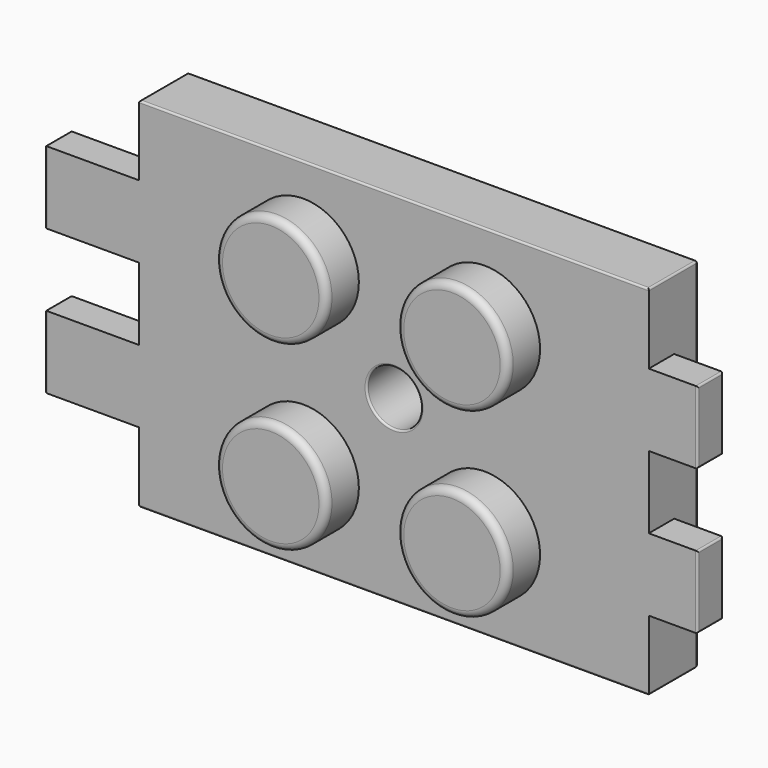
from build123d import *

# Parameters (mm, degrees)
SKETCH009_W                     = 22.5
SKETCH009_H                     = 15.8
PAD007_DEPTH                    = 2.7
SKETCH010_W                     = 3.2
SKETCH010_H                     = 1.4
PAD008_DEPTH                    = 2.15
SKETCH011_W                     = 3.2
SKETCH011_H                     = 1.4
PAD009_DEPTH                    = 4.15
SKETCH012_R                     = 2.45
PAD010_DEPTH                    = 1.8
SKETCH012_LINEARPATTERN004_2_R  = 2.45
PAD010_LINEARPATTERN004_2_DEPTH = 1.8
FILLET004_R                     = 0.32
SKETCH013_R                     = 1.2
POCKET002_DEPTH                 = 5
FILLET006_R                     = 0.08


with BuildPart() as part:
    # Sketch009 → Pad007 (new body)
    with BuildSketch(Plane.XZ):
        Rectangle(SKETCH009_W, SKETCH009_H)
    extrude(amount=-PAD007_DEPTH)

    # Sketch010 (on Face2 of Pad007) → Pad008 (join)
    with BuildSketch(Plane(origin=(11.25, 0, 0), x_dir=(0, 0, 1), z_dir=(1, 0, 0))):
        with Locations((-3.2, -0.7)):
            Rectangle(SKETCH010_W, SKETCH010_H)
        with Locations((3.2, -0.7)):
            Rectangle(SKETCH010_W, SKETCH010_H)
    extrude(amount=PAD008_DEPTH)

    # Sketch011 (on Face2 of Pad008) → Pad009 (join)
    with BuildSketch(Plane(origin=(-11.25, 0, 0), x_dir=(0, 0, -1), z_dir=(-1, 0, 0))):
        with Locations((-3.2, -0.7)):
            Rectangle(SKETCH011_W, SKETCH011_H)
        with Locations((3.2, -0.7)):
            Rectangle(SKETCH011_W, SKETCH011_H)
    extrude(amount=PAD009_DEPTH)

    # Sketch012 (on Face4 of Pad009) → Pad010 (join)
    with BuildSketch(Plane.XZ):
        with Locations((4, 4)):
            Circle(SKETCH012_R)
    pad010 = extrude(amount=PAD010_DEPTH)

    # Sketch012 LinearPattern004 2 → Pad010 LinearPattern004 2 (add)
    with BuildSketch(Plane(origin=(-8, 0, 0), x_dir=(1, 0, 0), z_dir=(0, -1, 0))):
        with Locations((4, 4)):
            Circle(SKETCH012_LINEARPATTERN004_2_R)
    pad010_linearpattern004_2 = extrude(amount=PAD010_LINEARPATTERN004_2_DEPTH)

    # Mirrored002: Pad010, Pad010 LinearPattern004 2 across Sketch012 H_Axis
    add(pad010.mirror(Plane(origin=(0, 0, 0), x_dir=(0, -1, 0), z_dir=(0, 0, 1))))
    add(pad010_linearpattern004_2.mirror(Plane(origin=(0, 0, 0), x_dir=(0, -1, 0), z_dir=(0, 0, 1))))

    # Fillet004
    fillet004_edges = [part.edges().sort_by_distance(p)[0] for p in [
        (1.55, -1.8, 4),
        (-6.45, -1.8, 4),
        (-6.45, -1.8, -4),
        (1.55, -1.8, -4),
    ]]
    fillet(fillet004_edges, radius=FILLET004_R)

    # Sketch013 (on Face16 of Fillet004) → Pocket002 (cut)
    with BuildSketch(Plane(origin=(0, 2.7, 0), x_dir=(1, 0, 0), z_dir=(0, 1, 0))):
        Circle(SKETCH013_R)
    extrude(amount=-POCKET002_DEPTH, mode=Mode.SUBTRACT)

    # Fillet006
    fillet006_edges = [part.edges().sort_by_distance(p)[0] for p in [
        (11.25, 1.35, -7.9),
        (-11.25, 1.35, -7.9),
        (0, 0, -7.9),
        (0, 2.7, -7.9),
        (-11.25, 1.35, 7.9),
        (11.25, 1.35, 7.9),
        (0, 0, 7.9),
        (0, 2.7, 7.9),
        (-11.25, 2.7, 0),
        (11.25, 2.7, 0),
        (-1.2, 2.7, 0),
        (1.2, 1.35, 0),
        (-1.2, 0, 0),
        (13.4, 0, 3.2),
        (13.4, 0.7, 4.8),
        (13.4, 1.4, 3.2),
        (13.4, 0.7, 1.6),
        (13.4, 0, -3.2),
        (13.4, 0.7, -1.6),
        (13.4, 1.4, -3.2),
        (13.4, 0.7, -4.8),
        (-15.4, 0, -3.2),
        (-15.4, 0.7, -4.8),
        (-15.4, 1.4, -3.2),
        (-15.4, 0.7, -1.6),
        (-15.4, 0, 3.2),
        (-15.4, 0.7, 1.6),
        (-15.4, 1.4, 3.2),
        (-15.4, 0.7, 4.8),
    ]]
    fillet(fillet006_edges, radius=FILLET006_R)


with BuildPart() as part_1:
    # Body003 placement: moved
    add(part.part.moved(Location((0, -55.9, 0))))


solid = part_1.part
